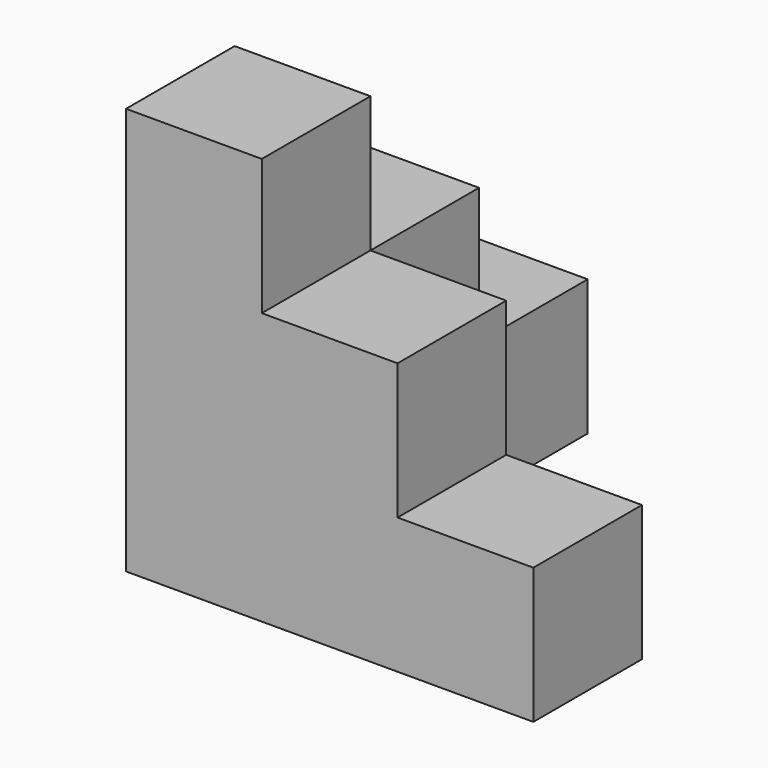
from build123d import *

# Parameters (mm, degrees)
BOX_W        = 10
BOX_H        = 10
BOX_DEPTH    = 30
BOX001_W     = 10
BOX001_H     = 10
BOX001_DEPTH = 20
BOX002_W     = 10
BOX002_H     = 10
BOX002_DEPTH = 20
BOX003_W     = 10
BOX003_H     = 10
BOX003_DEPTH = 10
BOX004_W     = 10
BOX004_H     = 10
BOX004_DEPTH = 10


with BuildPart() as nivell1_cub1:
    # Box → Box (new body)
    with BuildSketch(Plane.XY):
        with Locations((5, 5)):
            Rectangle(BOX_W, BOX_H)
    extrude(amount=BOX_DEPTH)


with BuildPart() as nivell1_cub2:
    # Box001 → Box001 (new body)
    with BuildSketch(Plane(origin=(10, 0, 0), x_dir=(1, 0, 0), z_dir=(0, 0, 1))):
        with Locations((5, 5)):
            Rectangle(BOX001_W, BOX001_H)
    extrude(amount=BOX001_DEPTH)


with BuildPart() as nivell1_cub3:
    # Box002 → Box002 (new body)
    with BuildSketch(Plane(origin=(0, 10, 0), x_dir=(1, 0, 0), z_dir=(0, 0, 1))):
        with Locations((5, 5)):
            Rectangle(BOX002_W, BOX002_H)
    extrude(amount=BOX002_DEPTH)


with BuildPart() as nivell1_cub4:
    # Box003 → Box003 (new body)
    with BuildSketch(Plane(origin=(20, 0, 0), x_dir=(1, 0, 0), z_dir=(0, 0, 1))):
        with Locations((5, 5)):
            Rectangle(BOX003_W, BOX003_H)
    extrude(amount=BOX003_DEPTH)


with BuildPart() as fusion:
    # Box004 → Box004 (new body)
    with BuildSketch(Plane(origin=(0, 20, 0), x_dir=(1, 0, 0), z_dir=(0, 0, 1))):
        with Locations((5, 5)):
            Rectangle(BOX004_W, BOX004_H)
    extrude(amount=BOX004_DEPTH)

    # Fusion: union nivell1_cub1, nivell1_cub2, nivell1_cub3, nivell1_cub4
    add(nivell1_cub1.part)
    add(nivell1_cub2.part)
    add(nivell1_cub3.part)
    add(nivell1_cub4.part)


solid = fusion.part
